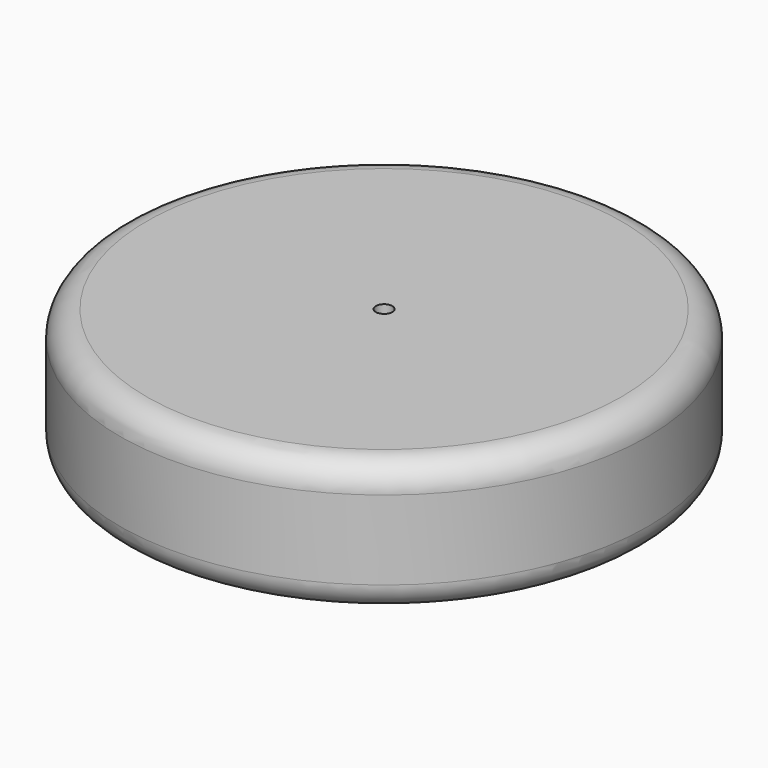
from build123d import *

# Parameters (mm, degrees)
F0_R     = 50.8
F0_R_2   = 1.5875
F1_DEPTH = 25.4
F2_DEPTH = 25.4
F3_R     = 5.08


with BuildPart() as f1:
    # F0 (on Top) → F1 (new body)
    with BuildSketch(Plane.XY):
        Circle(F0_R)
        Circle(F0_R_2, mode=Mode.SUBTRACT)
    extrude(amount=F1_DEPTH)

    # F0 (on Top) → F2 (join)
    with BuildSketch(Plane.XY):
        Circle(F0_R)
        Circle(F0_R_2, mode=Mode.SUBTRACT)
    extrude(amount=F2_DEPTH)

    # F3
    f3_edges = [f1.edges().sort_by_distance(p)[0] for p in [
        (-50.8, 0, 0),
        (50.8, 0, 12.7),
        (-50.8, 0, 25.4),
    ]]
    fillet(f3_edges, radius=F3_R)


solid = f1.part
